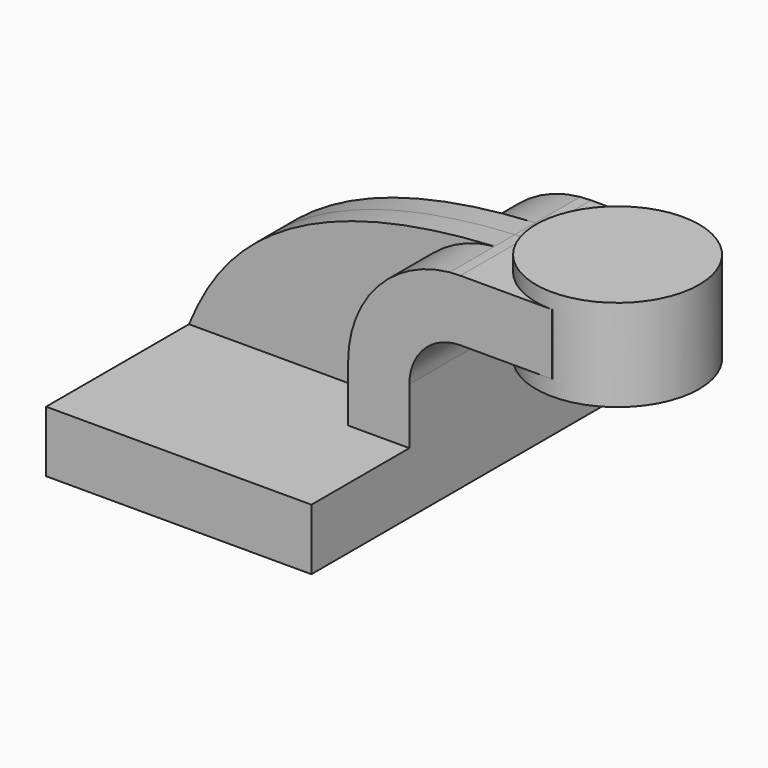
from build123d import *

# Parameters (mm, degrees)
F1_DEPTH = 63.5
F0_W     = 25.4
F0_H     = 19.05
F2_DEPTH = 25.4
F3_DEPTH = 7.9375


with BuildPart() as f1:
    # F0 (on Front) → F1 (new body, symmetric)
    with BuildSketch(Plane.XZ):
        Polygon((-41.275, -9.525), (41.275, -9.525), (41.275, 9.525), (22.225, 9.525), (-41.275, 9.525), align=None)
    extrude(amount=F1_DEPTH, both=True)

    # F0 (on Front) → F2 (join, symmetric)
    with BuildSketch(Plane.XZ):
        with BuildLine():
            Line((22.225, 9.525), (41.275, 9.525))
            Line((41.275, 9.525), (41.275, 27.0002))
            ThreePointArc((41.275, 27.0002), (45.9246798487, 38.2255201513), (57.15, 42.8752))
            Line((57.15, 42.8752), (60.325, 42.8752))
            Line((60.325, 42.8752), (60.325, 61.9252))
            Line((60.325, 61.9252), (57.15, 61.9252))
            add(Edge.make_bspline(
                [(53.7964176979, 61.7638176303), (54.9010423468, 61.8241716097), (56.0188466044, 61.8780172126), (57.15, 61.9252)],
                knots=[109.8281331971, 109.8281331971, 109.8281331971, 109.8281331971, 111.5045361635, 111.5045361635, 111.5045361635, 111.5045361635], degree=3))
            ThreePointArc((53.7964176979, 61.7638176303), (31.2957983405, 50.4803167278), (22.225, 27.0002))
            Line((22.225, 27.0002), (22.225, 9.525))
        make_face()
        with Locations((73.025, 52.4002)):
            Rectangle(F0_W, F0_H)
    extrude(amount=F2_DEPTH, both=True)

    # F0 (on Front) → F3 (join, symmetric)
    with BuildSketch(Plane.XZ):
        with BuildLine():
            add(Edge.make_bspline(
                [(-41.275, 9.525), (-34.3724279112, 25.9210995904), (-18.5721389692, 57.8097773252), (53.7964176979, 61.7638176303)],
                knots=[0, 0, 0, 0, 109.8281331971, 109.8281331971, 109.8281331971, 109.8281331971], degree=3))
            Line((-41.275, 9.525), (22.225, 9.525))
            Line((22.225, 9.525), (22.225, 27.0002))
            ThreePointArc((22.225, 27.0002), (31.2957983405, 50.4803167278), (53.7964176979, 61.7638176303))
        make_face()
    extrude(amount=F3_DEPTH, both=True)


with BuildPart() as f4:
    # F0 (on Front) → F4 (revolve)
    with BuildSketch(Plane.XZ):
        Polygon((85.725, 61.9252), (85.725, 42.8752), (85.725, 38.1), (111.125, 38.1), (111.125, 66.675), (85.725, 66.675), align=None)
    revolve(axis=Axis((85.725, 0, 52.3875), (0, 0, -1)))


solid = Compound([f1.part, f4.part])
